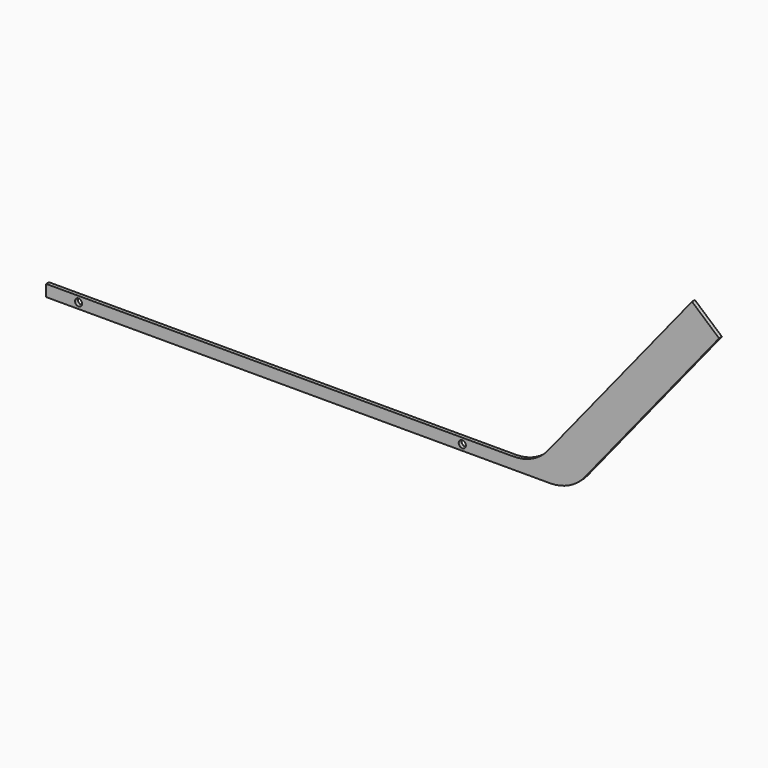
from build123d import *

# Parameters (mm, degrees)
F1_DEPTH = 4
F2_R     = 4
F3_DEPTH = 25


with BuildPart() as f1:
    # F0 (on Front) → F1 (new body)
    with BuildSketch(Plane.XZ):
        with BuildLine():
            Line((-219.300896, 13), (-219.300896, 0))
            Line((-219.300896, 0), (343.669184, 0))
            ThreePointArc((343.669184, 0), (365.194739, 4.870736), (382.526482, 18.53398))
            Line((382.526482, 18.53398), (532.675548, 203.952635))
            Line((532.675548, 203.952635), (502.477538, 230.221827))
            Line((502.477538, 230.221827), (341.583292, 31.53398))
            ThreePointArc((341.583292, 31.53398), (324.251549, 17.870736), (302.725994, 13))
            Line((302.725994, 13), (-219.300896, 13))
        make_face()
    extrude(amount=F1_DEPTH)

    # F2 (on face) → F3 (cut)
    with BuildSketch(Plane.XZ.offset(4)):
        with Locations((245.786324, 6.5)):
            Circle(F2_R)
        with Locations((-182.988614, 6.5)):
            Circle(F2_R)
    extrude(amount=-F3_DEPTH, mode=Mode.SUBTRACT)


solid = f1.part
